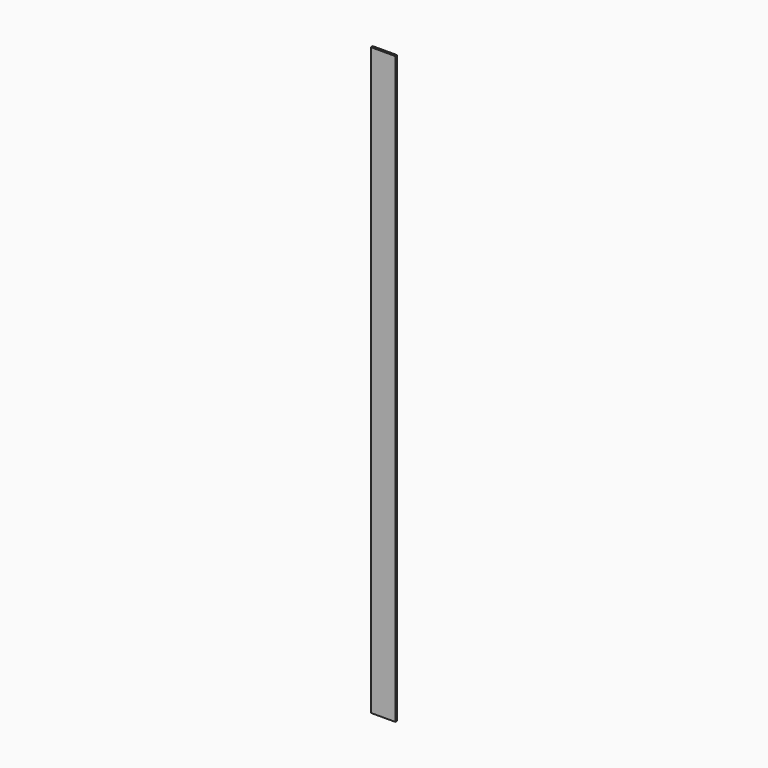
from build123d import *

# Parameters (mm, degrees)
F1_DEPTH = 1219.2
F3_DEPTH = 4.7625


with BuildPart() as f1:
    # F0 (on Top) → F1 (new body)
    with BuildSketch(Plane.XY):
        Polygon((0, 50.8), (0, 0), (50.8, 0), (50.8, 4.7625), (4.7625, 4.7625), (4.7625, 50.8), align=None)
    extrude(amount=F1_DEPTH)

    # F2 (on face) → F3 (cut, through all)
    with BuildSketch(Plane.YZ.offset(4.7625)):
        Polygon((50.8, 46.0375), (4.7625, 0), (50.8, 0), align=None)
        Polygon((50.8, 1219.2), (4.7625, 1219.2), (50.8, 1173.1625), align=None)
    extrude(amount=-F3_DEPTH, mode=Mode.SUBTRACT)


solid = f1.part
